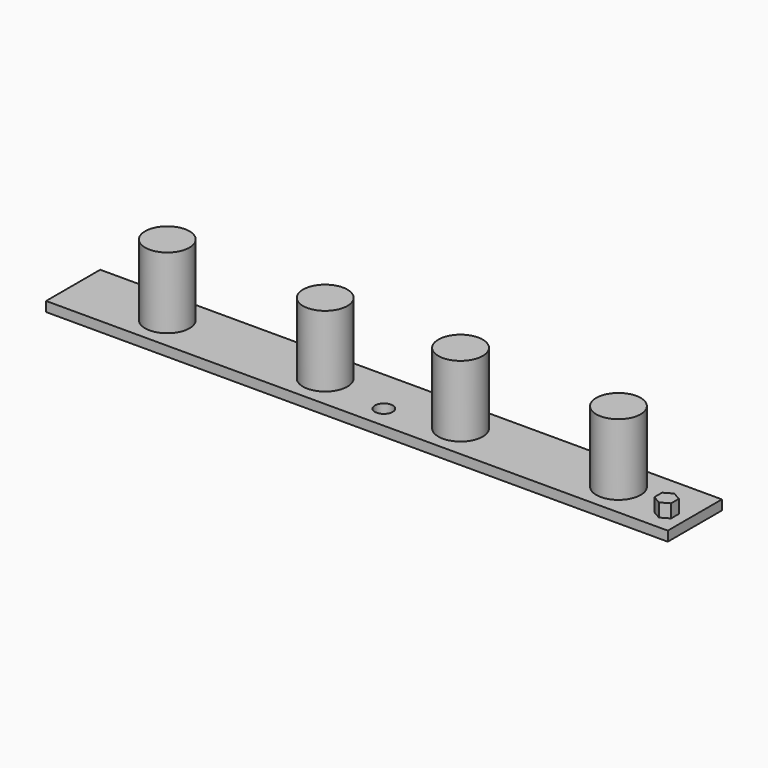
from build123d import *

# Parameters (mm, degrees)
SKETCH029_W             = 70
SKETCH029_H             = 7.62
SKETCH029_R             = 1
PAD017_DEPTH            = 1.1
SKETCH033_R             = 2.5
PAD021_DEPTH            = 8
PAD015_DEPTH            = 1.5
BODY007_PLACEMENT_ANGLE = 180


with BuildPart() as part:
    # Sketch029 → Pad017 (new body)
    with BuildSketch(Plane.XY):
        with Locations((35, 3.81)):
            Rectangle(SKETCH029_W, SKETCH029_H)
        with Locations((34, 5.08)):
            Circle(SKETCH029_R, mode=Mode.SUBTRACT)
    extrude(amount=PAD017_DEPTH)

    # Sketch033 (on Face7 of Pad017) → Pad021 (join)
    with BuildSketch(Plane.XY.offset(1.1)):
        with Locations((26.38, 3.81)):
            Circle(SKETCH033_R)
        with Locations((41.62, 3.81)):
            Circle(SKETCH033_R)
        with Locations((59.4, 3.81)):
            Circle(SKETCH033_R)
        with Locations((8.6, 3.81)):
            Circle(SKETCH033_R)
    extrude(amount=PAD021_DEPTH)

    # Sketch025 (on Face5 of Pad021) → Pad015 (join)
    with BuildSketch(Plane.XY.offset(1.1)):
        Polygon((3.106141, 4.536354), (3.106141, 5.623646), (2.164519, 6.167292), (1.222896, 5.623646), (1.222896, 4.536354), (2.164519, 3.992708), align=None)
    extrude(amount=PAD015_DEPTH)


with BuildPart() as part_1:
    # Body007 placement: moved
    add(part.part.moved(Location((75, 71, 0))).rotate(Axis((75, 71, 0), (0, 0, 1)), BODY007_PLACEMENT_ANGLE))


solid = part_1.part
